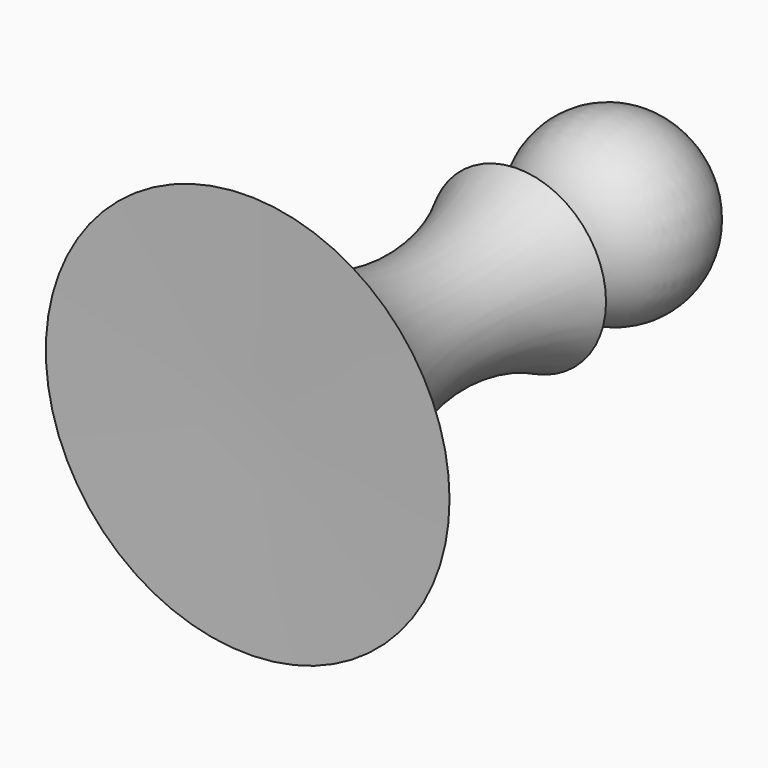
from build123d import *


with BuildPart() as f1:
    # F0 (on Top) → F1 (revolve)
    with BuildSketch(Plane.XY):
        with BuildLine():
            ThreePointArc((6.651924, 15.793117), (14.498431, 31.25707), (0, 40.770061))
            Line((0, 40.770061), (0, 15.050871))
            ThreePointArc((0, 15.050871), (3.374534, 14.986691), (6.651924, 15.793117))
        make_face()
        with BuildLine():
            ThreePointArc((6.651924, 15.793117), (3.374534, 14.986691), (0, 15.050871))
            Line((0, 15.050871), (0, -48.145551))
            Line((0, -48.145551), (33.957735, -48.610728))
            ThreePointArc((33.957735, -48.610728), (12.289546, -24.312274), (14.885581, 8.140552))
            ThreePointArc((14.885581, 8.140552), (7.101852, 8.02149), (6.651924, 15.793117))
        make_face()
    revolve(axis=Axis((0, -3.687745, 0), (0, -1, 0)))


solid = f1.part
